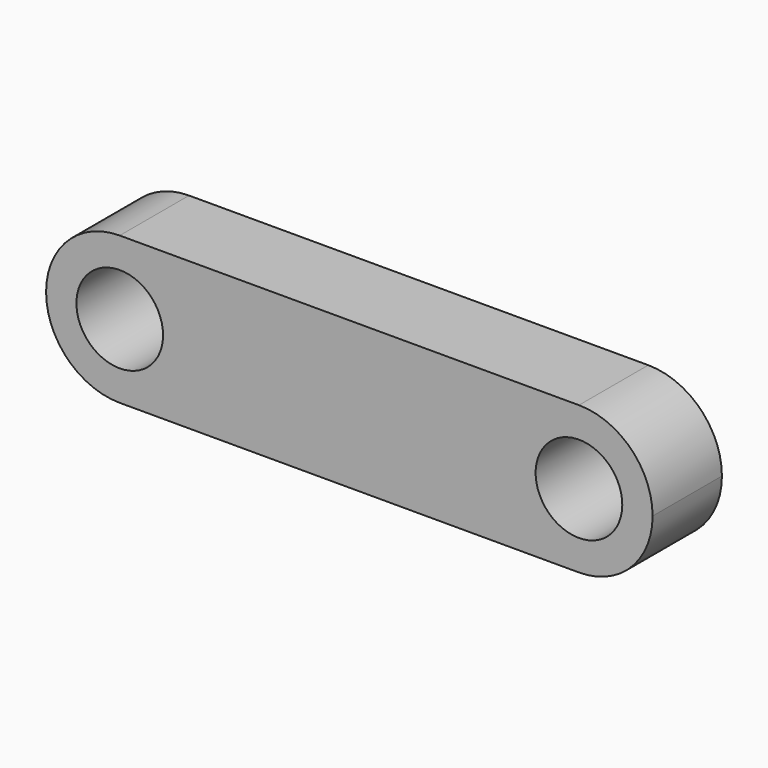
from build123d import *

# Parameters (mm, degrees)
F0_R     = 2.5
F1_DEPTH = 5


with BuildPart() as f1:
    # F0 (on Front) → F1 (new body)
    with BuildSketch(Plane.XZ):
        with BuildLine():
            ThreePointArc((0, -4.25), (3.005204, -3.005204), (4.25, 0))
            ThreePointArc((4.25, 0), (3.005204, 3.005204), (0, 4.25))
            ThreePointArc((0, 4.25), (-4.25, 0), (0, -4.25))
        make_face()
        Circle(F0_R, mode=Mode.SUBTRACT)
        with BuildLine():
            ThreePointArc((30.75, 0), (29.505204, 3.005204), (26.5, 4.25))
            ThreePointArc((26.5, 4.25), (22.25, 0), (26.5, -4.25))
            ThreePointArc((26.5, -4.25), (29.505204, -3.005204), (30.75, 0))
        make_face()
        with Locations((26.5, 0)):
            Circle(F0_R, mode=Mode.SUBTRACT)
        with BuildLine():
            ThreePointArc((0, 4.25), (3.005204, 3.005204), (4.25, 0))
            ThreePointArc((4.25, 0), (3.005204, -3.005204), (0, -4.25))
            Line((0, -4.25), (26.5, -4.25))
            ThreePointArc((26.5, -4.25), (22.25, 0), (26.5, 4.25))
            Line((26.5, 4.25), (0, 4.25))
        make_face()
    extrude(amount=F1_DEPTH)


solid = f1.part
